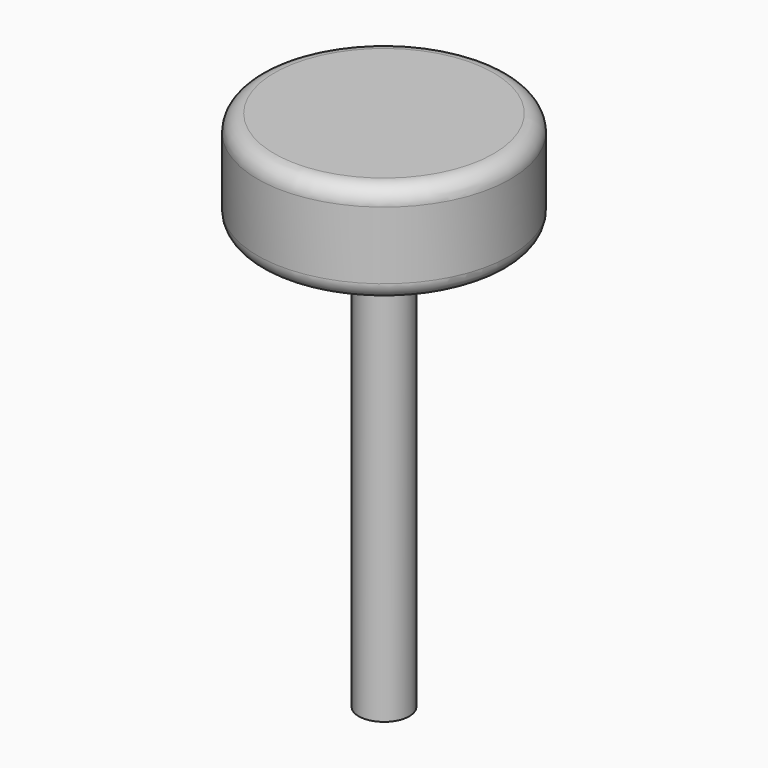
from build123d import *

# Parameters (mm, degrees)
SKETCH_R     = 7.5
PAD_DEPTH    = 6
FILLET_R     = 1
SKETCH001_R  = 1.65
POCKET_DEPTH = 4
CHAMFER_SIZE = 1
SKETCH002_R  = 1.5
PAD001_DEPTH = 25


with BuildPart() as rueda:
    # Sketch → Pad (new body)
    with BuildSketch(Plane.XY):
        Circle(SKETCH_R)
    extrude(amount=PAD_DEPTH)

    # Fillet
    fillet_edges = [rueda.edges().sort_by_distance(p)[0] for p in [
        (-7.5, 0, 6),
        (-7.5, 0, 0),
    ]]
    fillet(fillet_edges, radius=FILLET_R)

    # Sketch001 (on Face4 of Fillet) → Pocket (cut)
    with BuildSketch(Plane(origin=(0, 0, 0), x_dir=(1, 0, 0), z_dir=(0, 0, -1))):
        Circle(SKETCH001_R)
    extrude(amount=-POCKET_DEPTH, mode=Mode.SUBTRACT)

    # Chamfer
    chamfer_edges = [rueda.edges().sort_by_distance(p)[0] for p in [
        (-1.65, 0, 0),
    ]]
    chamfer(chamfer_edges, length=CHAMFER_SIZE)


with BuildPart() as eje:
    # Sketch002 → Pad001 (new body)
    with BuildSketch(Plane.XY):
        Circle(SKETCH002_R)
    extrude(amount=-PAD001_DEPTH)


solid = Compound([rueda.part, eje.part])
